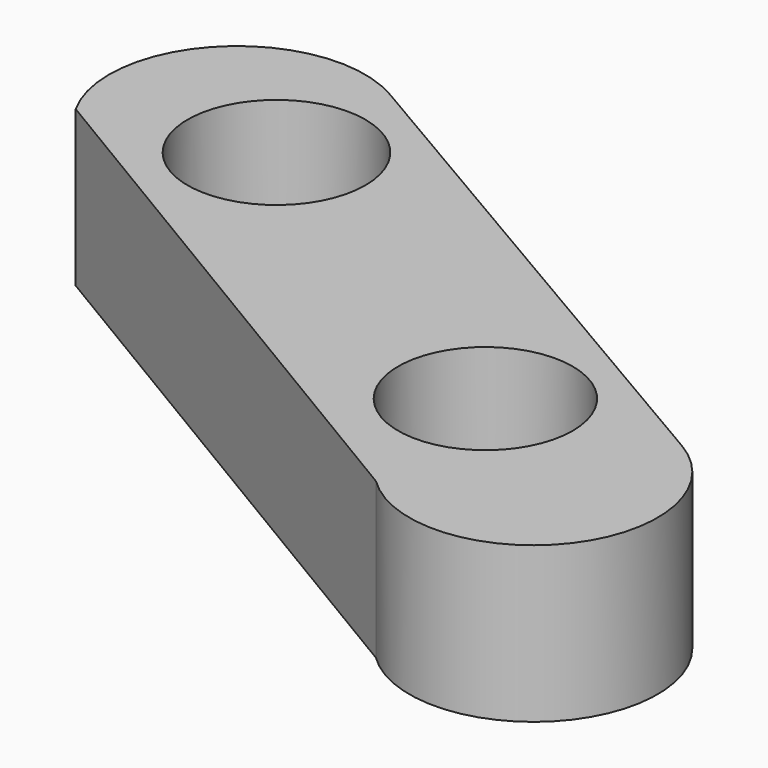
from build123d import *

# Parameters (mm, degrees)
F0_R     = 14.025534
F0_R_2   = 14.295854
F1_DEPTH = 25


with BuildPart() as f1:
    # F0 (on Top) → F1 (new body)
    with BuildSketch(Plane.XY):
        with BuildLine():
            Line((62.619351, -1.755013), (-25.597828, 49.891308))
            ThreePointArc((-25.597828, 49.891308), (-50.355489, 46.854264), (-53.967394, 22.173915))
            Line((-53.967394, 22.173915), (38.641308, -33.260871))
            ThreePointArc((38.641308, -33.260871), (68.412906, -31.04166), (62.619351, -1.755013))
        make_face()
        with Locations((35.380434, -7.173914)):
            Circle(F0_R, mode=Mode.SUBTRACT)
        with Locations((-26.902175, 28.695654)):
            Circle(F0_R_2, mode=Mode.SUBTRACT)
    extrude(amount=F1_DEPTH)


solid = f1.part
